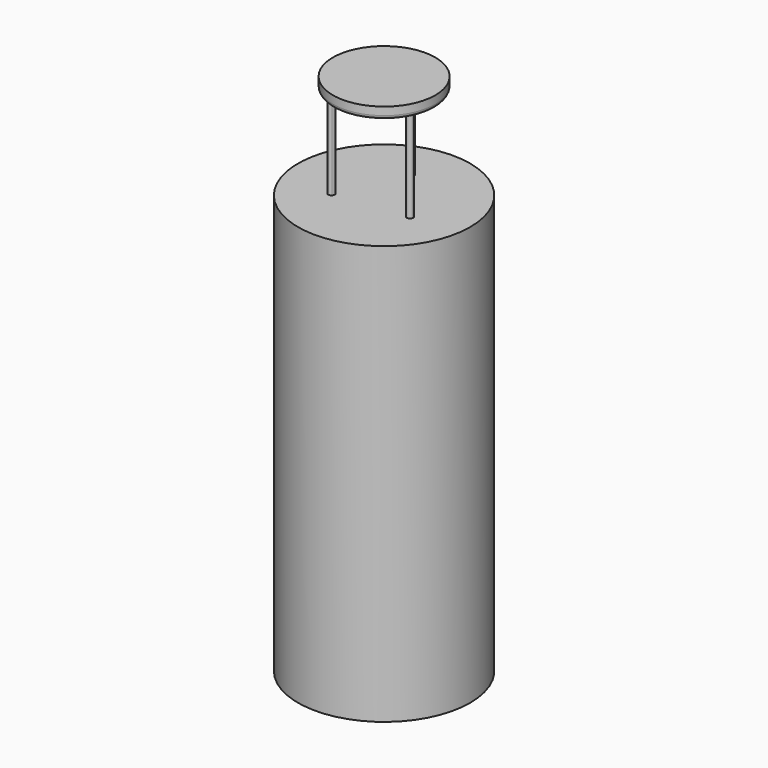
from build123d import *

# Parameters (mm, degrees)
F0_R     = 185
F1_DEPTH = 900
F4_DEPTH = 200
F5_R     = 110
F5_R_2   = 7
F6_DEPTH = 25
F7_R     = 8


with BuildPart() as f1:
    # F0 (on Top) → F1 (new body)
    with BuildSketch(Plane.XY):
        Circle(F0_R)
    extrude(amount=F1_DEPTH)

    # F3 (on face) → F4 (join)
    with BuildSketch(Plane.XY.offset(900)):
        with BuildLine():
            ThreePointArc((83.400185, -26.469967), (75.780776, -30.745971), (78.266953, -39.122041))
            ThreePointArc((78.266953, -39.122041), (81.080729, -32.896282), (83.400185, -26.469967))
        make_face()
        with BuildLine():
            ThreePointArc((83.400185, -26.469967), (81.080729, -32.896282), (78.266953, -39.122041))
            ThreePointArc((78.266953, -39.122041), (85.507452, -39.58259), (89.267234, -33.377674))
            ThreePointArc((89.267234, -33.377674), (87.602525, -28.846154), (83.400185, -26.469967))
        make_face()
        with BuildLine():
            ThreePointArc((-68.096127, -54.946951), (-72.208025, -49.419138), (-75.872273, -43.584954))
            ThreePointArc((-75.872273, -43.584954), (-78.807669, -53.935931), (-68.096127, -54.946951))
        make_face()
        with BuildLine():
            ThreePointArc((-68.096127, -54.946951), (-66.56789, -52.670867), (-66.031027, -49.9824))
            ThreePointArc((-66.031027, -49.9824), (-69.215842, -44.113469), (-75.872273, -43.584954))
            ThreePointArc((-75.872273, -43.584954), (-72.208025, -49.419138), (-68.096127, -54.946951))
        make_face()
        with BuildLine():
            ThreePointArc((-4.602196, 87.378886), (-11.519275, 86.738436), (-18.36375, 85.551287))
            ThreePointArc((-18.36375, 85.551287), (-11.355664, 78.567501), (-4.363768, 85.567496))
            ThreePointArc((-4.363768, 85.567496), (-4.423631, 86.481003), (-4.602196, 87.378886))
        make_face()
        with BuildLine():
            ThreePointArc((-4.602196, 87.378886), (-12.28531, 92.506571), (-18.36375, 85.551287))
            ThreePointArc((-18.36375, 85.551287), (-11.519275, 86.738436), (-4.602196, 87.378886))
        make_face()
    extrude(amount=F4_DEPTH)

    # F5 (on face) → F6 (join)
    with BuildSketch(Plane.XY.offset(1100)):
        Circle(F5_R)
        with Locations((-11.363768, 85.567496)):
            Circle(F5_R_2, mode=Mode.SUBTRACT)
        with Locations((-11.363768, 85.567496)):
            Circle(F5_R_2)
    extrude(amount=F6_DEPTH)

    # F7
    f7_edges = [f1.edges().sort_by_distance(p)[0] for p in [
        (-110, 0, 1100),
    ]]
    fillet(f7_edges, radius=F7_R)


solid = f1.part
